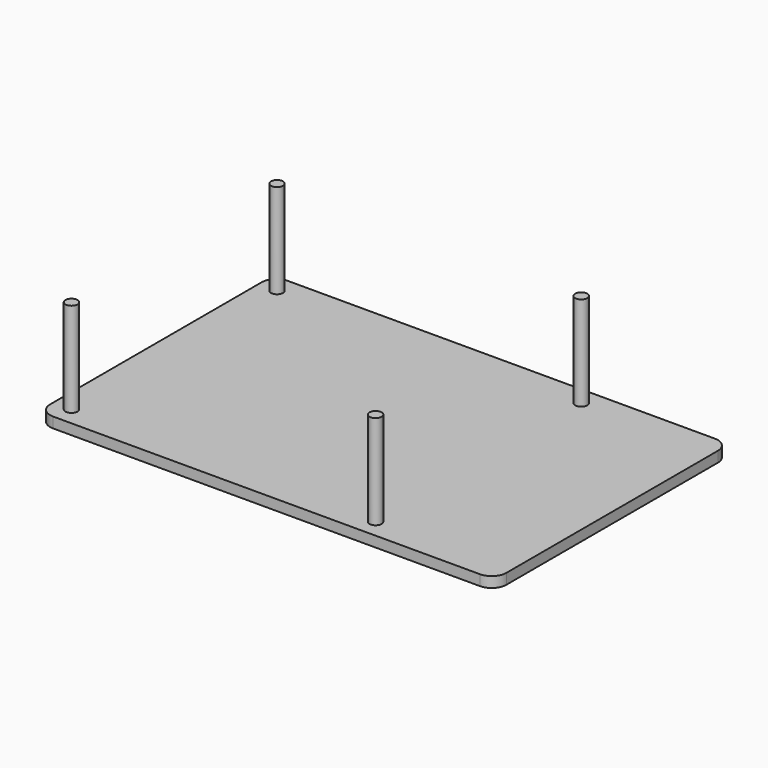
from build123d import *

# Parameters (mm, degrees)
F0_R     = 1.15
F1_DEPTH = 2
F2_DEPTH = 105
F4_R     = 2.75
F4_R_2   = 1.75
F5_DEPTH = 2
F6_DEPTH = 2
F8_R     = 1.15
F9_DEPTH = 18


with BuildPart() as f1:
    # F0 (on Top) → F1 (new body)
    with BuildSketch(Plane.XY):
        with BuildLine():
            ThreePointArc((0, 2.8), (0.8201010127, 0.8201010127), (2.8, 0))
            Line((2.8, 0), (84.2, 0))
            ThreePointArc((84.2, 0), (86.1798989873, 0.8201010127), (87, 2.8))
            Line((87, 2.8), (87, 53.2))
            ThreePointArc((87, 53.2), (86.1798989873, 55.1798989873), (84.2, 56))
            Line((84.2, 56), (2.8, 56))
            ThreePointArc((2.8, 56), (0.8201010127, 55.1798989873), (0, 53.2))
            Line((0, 53.2), (0, 2.8))
        make_face()
        with Locations((3.5, 3.5)):
            Circle(F0_R, mode=Mode.SUBTRACT)
        with Locations((61.5, 3.5)):
            Circle(F0_R, mode=Mode.SUBTRACT)
        with Locations((3.5, 52.5)):
            Circle(F0_R, mode=Mode.SUBTRACT)
        with Locations((61.5, 52.5)):
            Circle(F0_R, mode=Mode.SUBTRACT)
        with Locations((3.5, 3.5)):
            Circle(F0_R)
        with Locations((61.5, 52.5)):
            Circle(F0_R)
        with Locations((61.5, 3.5)):
            Circle(F0_R)
        with Locations((61.5, 52.5)):
            Circle(F0_R)
        with Locations((61.5, 3.5)):
            Circle(F0_R)
        with Locations((3.5, 52.5)):
            Circle(F0_R)
    extrude(amount=F1_DEPTH)

    # F0 (on Top) → F2 (join)
    with BuildSketch(Plane.XY):
        with Locations((61.5, 3.5)):
            Circle(F0_R)
        with Locations((61.5, 52.5)):
            Circle(F0_R)
        with Locations((3.5, 52.5)):
            Circle(F0_R)
        with Locations((3.5, 3.5)):
            Circle(F0_R)
    extrude(amount=F2_DEPTH)


with BuildPart() as f5:
    # F4 (on offset) → F5 (new body)
    with BuildSketch(Plane.XY.offset(25)):
        with BuildLine():
            Line((84.2, 56), (2.8, 56))
            ThreePointArc((2.8, 56), (0.8201010127, 55.1798989873), (0, 53.2))
            Line((0, 53.2), (0, 2.8))
            ThreePointArc((0, 2.8), (0.8201010127, 0.8201010127), (2.8, 0))
            Line((2.8, 0), (84.2, 0))
            ThreePointArc((84.2, 0), (86.1798989873, 0.8201010127), (87, 2.8))
            Line((87, 2.8), (87, 53.2))
            ThreePointArc((87, 53.2), (86.1798989873, 55.1798989873), (84.2, 56))
        make_face()
        with Locations((3.5, 3.5)):
            Circle(F4_R, mode=Mode.SUBTRACT)
        with Locations((61.5, 3.5)):
            Circle(F4_R, mode=Mode.SUBTRACT)
        with Locations((3.5, 52.5)):
            Circle(F4_R, mode=Mode.SUBTRACT)
        with Locations((61.5, 52.5)):
            Circle(F4_R, mode=Mode.SUBTRACT)
        with Locations((3.5, 3.5)):
            Circle(F4_R)
        with Locations((3.5, 3.5)):
            Circle(F4_R_2, mode=Mode.SUBTRACT)
        with Locations((61.5, 3.5)):
            Circle(F4_R)
        with Locations((61.5, 3.5)):
            Circle(F4_R_2, mode=Mode.SUBTRACT)
        with Locations((61.5, 52.5)):
            Circle(F4_R)
        with Locations((61.5, 52.5)):
            Circle(F4_R_2, mode=Mode.SUBTRACT)
        with Locations((3.5, 52.5)):
            Circle(F4_R)
        with Locations((3.5, 52.5)):
            Circle(F4_R_2, mode=Mode.SUBTRACT)
        with Locations((3.5, 3.5)):
            Circle(F4_R_2)
        with Locations((61.5, 3.5)):
            Circle(F4_R_2)
        with Locations((61.5, 52.5)):
            Circle(F4_R_2)
        with Locations((3.5, 52.5)):
            Circle(F4_R_2)
    extrude(amount=F5_DEPTH)

    # F4 (on offset) → F6 (join, through all)
    with BuildSketch(Plane.XY.offset(25)):
        with Locations((3.5, 3.5)):
            Circle(F4_R)
        with Locations((3.5, 3.5)):
            Circle(F4_R_2, mode=Mode.SUBTRACT)
        with Locations((3.5, 52.5)):
            Circle(F4_R)
        with Locations((3.5, 52.5)):
            Circle(F4_R_2, mode=Mode.SUBTRACT)
        with Locations((61.5, 52.5)):
            Circle(F4_R)
        with Locations((61.5, 52.5)):
            Circle(F4_R_2, mode=Mode.SUBTRACT)
        with Locations((61.5, 3.5)):
            Circle(F4_R)
        with Locations((61.5, 3.5)):
            Circle(F4_R_2, mode=Mode.SUBTRACT)
    extrude(amount=F6_DEPTH)

    # F8 (on face) → F9 (join)
    with BuildSketch(Plane.XY.offset(27)):
        with Locations((3.5, 52.5)):
            Circle(F8_R)
        with Locations((61.5, 52.5)):
            Circle(F8_R)
        with Locations((61.5, 3.5)):
            Circle(F8_R)
        with Locations((3.5, 3.5)):
            Circle(F8_R)
    extrude(amount=F9_DEPTH)


solid = f5.part
